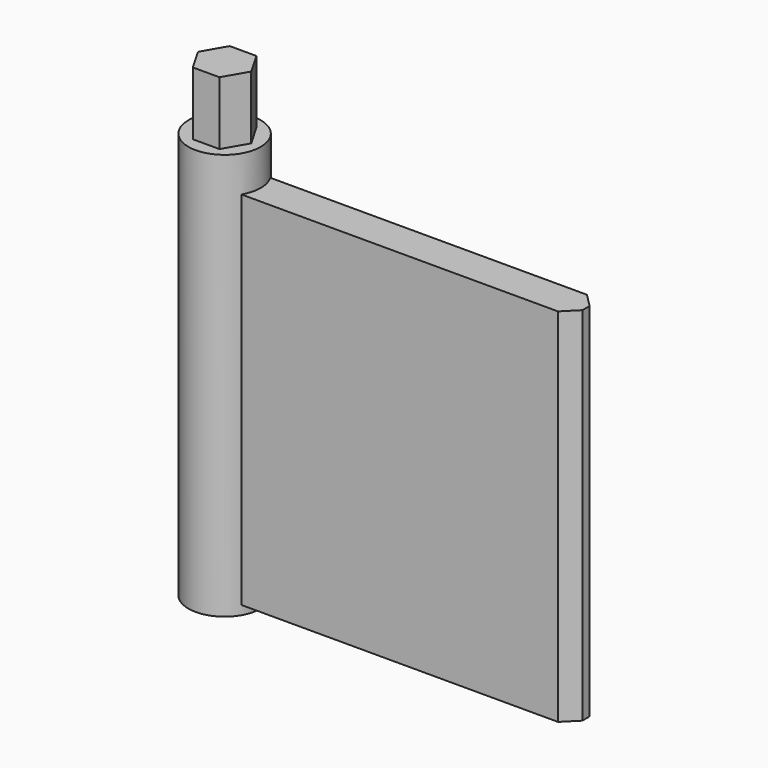
from build123d import *

# Parameters (mm, degrees)
SKETCH015_W               = 40
SKETCH015_H               = 40
EXTRUDE017_DEPTH          = 2
CHAMFER_SIZE              = 1.5
EXTRUDE023_DEPTH          = 7
SKETCH014_R               = 4
EXTRUDE016_DEPTH          = 45
FUSION007_PLACEMENT_ANGLE = 180


with BuildPart() as chamfer_body:
    # Sketch015 (on Extrude) → Extrude017 (new body, symmetric)
    with BuildSketch(Plane.XZ):
        with Locations((-20, 24)):
            Rectangle(SKETCH015_W, SKETCH015_H)
    extrude(amount=EXTRUDE017_DEPTH, both=True)

    # Chamfer
    chamfer_edges = [chamfer_body.edges().sort_by_distance(p)[0] for p in [
        (-40, 2, 24),
        (-40, -2, 24),
    ]]
    chamfer(chamfer_edges, length=CHAMFER_SIZE)


with BuildPart() as extrude023:
    # Sketch018 → Extrude023 (new body)
    with BuildSketch(Plane.XY):
        Polygon((-1.475, 2.554775), (1.475, 2.554775), (2.95, 0), (1.475, -2.554775), (-1.475, -2.554775), (-2.95, 0), align=None)
    extrude(amount=-EXTRUDE023_DEPTH)


with BuildPart() as flap:
    # Sketch014 → Extrude016 (new body)
    with BuildSketch(Plane.XY):
        Circle(SKETCH014_R)
    extrude(amount=EXTRUDE016_DEPTH)

    # Fusion007: union Chamfer body, Extrude023
    add(chamfer_body.part)
    add(extrude023.part)


with BuildPart() as flap_1:
    # Fusion007 placement: moved
    add(flap.part.rotate(Axis((0, 0, 0), (0, 1, 0)), FUSION007_PLACEMENT_ANGLE))


solid = flap_1.part
